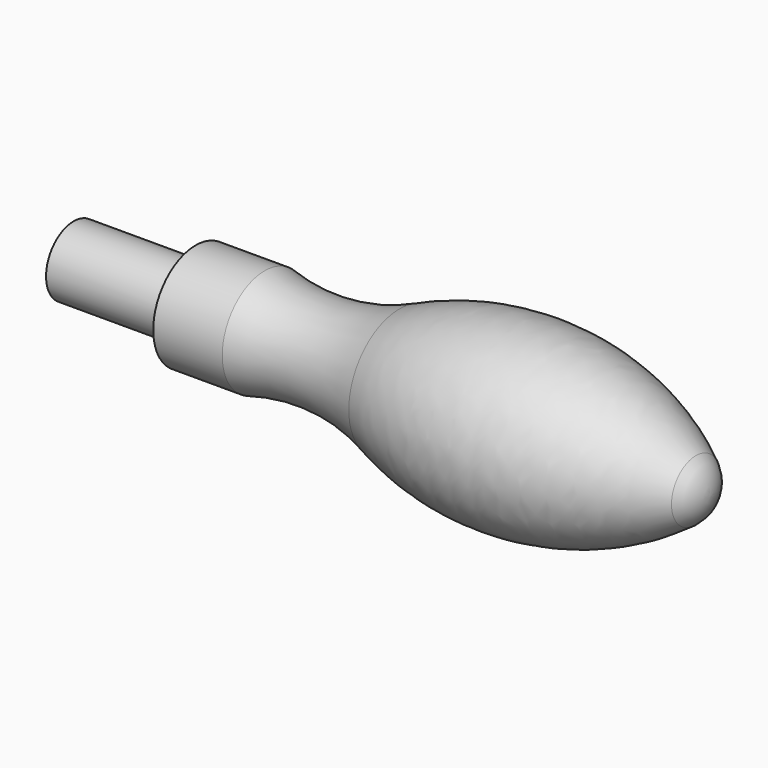
from build123d import *


with BuildPart() as f1:
    # F0 (on Top) → F1 (revolve)
    with BuildSketch(Plane.XY):
        with BuildLine():
            Line((0, 6.5), (0, 0))
            Line((0, 0), (120.145537, 0))
            ThreePointArc((120.145537, 0), (119.378368, 3.221045), (117.24159, 5.750445))
            ThreePointArc((117.24159, 5.750445), (90.129777, 16.34737), (61.361702, 11.904051))
            ThreePointArc((61.361702, 11.904051), (48.844875, 8.767246), (36, 10))
            Line((36, 10), (23, 10))
            Line((23, 10), (23, 6.5))
            Line((23, 6.5), (0, 6.5))
        make_face()
    revolve(axis=Axis((60.072769, 0, 0), (1, 0, 0)))


solid = f1.part
